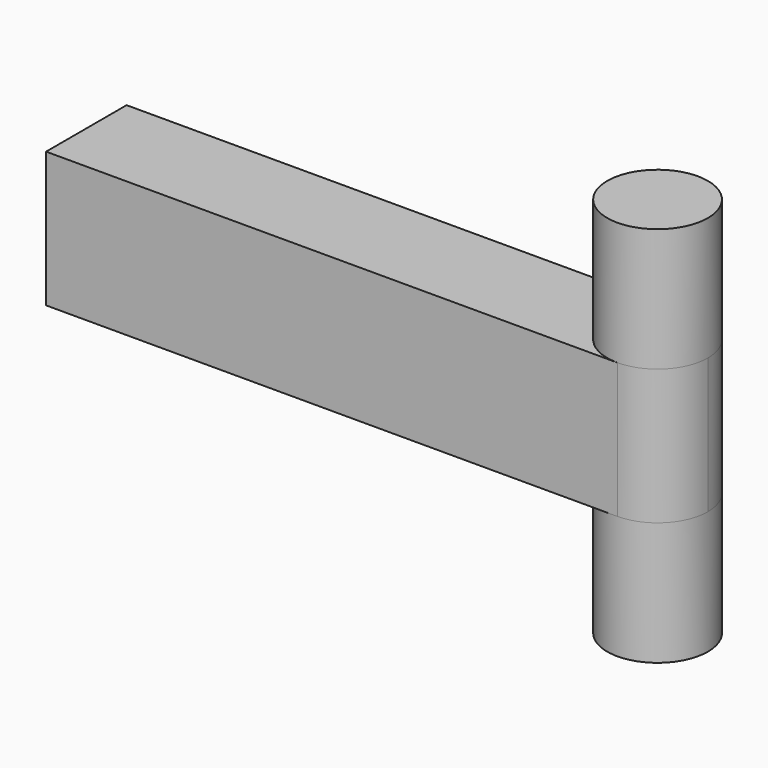
from build123d import *

# Parameters (mm, degrees)
PAD_DEPTH    = 3.9
SKETCH001_R  = 2.9
PAD001_DEPTH = 11


with BuildPart() as part:
    # Sketch → Pad (new body, symmetric)
    with BuildSketch(Plane.XY):
        with BuildLine():
            ThreePointArc((-1.2e-05, -2.9), (2.9, 0), (-1.2e-05, 2.9))
            Line((-1.2e-05, 2.9), (-32.917675, 2.9))
            Line((-32.917675, -2.9), (-32.917675, 2.9))
            Line((-1.2e-05, -2.9), (-32.917675, -2.9))
        make_face()
    extrude(amount=PAD_DEPTH, both=True)

    # Sketch001 → Pad001 (join, symmetric)
    with BuildSketch(Plane.XY):
        Circle(SKETCH001_R)
    extrude(amount=PAD001_DEPTH, both=True)


solid = part.part
